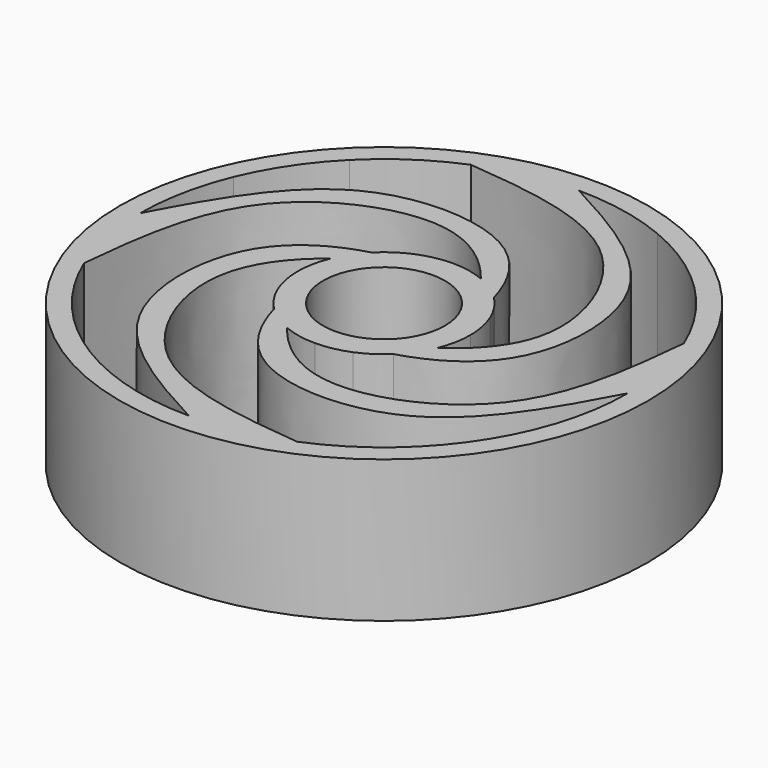
from build123d import *

# Parameters (mm, degrees)
F0_R     = 13
F0_R_2   = 3
F1_DEPTH = 7


with BuildPart() as f1:
    # F0 (on Top) → F1 (new body)
    with BuildSketch(Plane.XY):
        Circle(F0_R)
        with BuildLine():
            ThreePointArc((-11.0865543901, 4.5922011884), (-9.9776353476, 6.6668427962), (-8.4852813742, 8.4852813742))
            ThreePointArc((-8.4852813742, 8.4852813742), (-6.6668427962, 9.9776353476), (-4.5922011884, 11.0865543901))
            ThreePointArc((-4.5922011884, 11.0865543901), (-2.3410838642, 11.7694233648), (0, 12))
            ThreePointArc((0, 12), (2.3410838642, 11.7694233648), (4.5922011884, 11.0865543901))
            ThreePointArc((4.5922011884, 11.0865543901), (6.6668427962, 9.9776353476), (8.4852813742, 8.4852813742))
            ThreePointArc((8.4852813742, 8.4852813742), (9.9776353476, 6.6668427962), (11.0865543901, 4.5922011884))
            ThreePointArc((11.0865543901, 4.5922011884), (11.7694233648, 2.3410838642), (12, 0))
            ThreePointArc((12, 0), (11.7694233648, -2.3410838642), (11.0865543901, -4.5922011884))
            ThreePointArc((11.0865543901, -4.5922011884), (9.9776353476, -6.6668427962), (8.4852813742, -8.4852813742))
            ThreePointArc((8.4852813742, -8.4852813742), (6.6668427962, -9.9776353476), (4.5922011884, -11.0865543901))
            ThreePointArc((4.5922011884, -11.0865543901), (2.3410838642, -11.7694233648), (0, -12))
            ThreePointArc((0, -12), (-2.3410838642, -11.7694233648), (-4.5922011884, -11.0865543901))
            ThreePointArc((-4.5922011884, -11.0865543901), (-6.6668427962, -9.9776353476), (-8.4852813742, -8.4852813742))
            ThreePointArc((-8.4852813742, -8.4852813742), (-9.9776353476, -6.6668427962), (-11.0865543901, -4.5922011884))
            ThreePointArc((-11.0865543901, -4.5922011884), (-11.7694233648, -2.3410838642), (-12, 0))
            ThreePointArc((-12, 0), (-11.7694233648, 2.3410838642), (-11.0865543901, 4.5922011884))
        make_face(mode=Mode.SUBTRACT)
        with BuildLine():
            add(Edge.make_bspline(
                [(11.0865543901, 4.5922011884), (10.7942622521, 1.5596035882), (10.0833868115, -4.258472749), (2.5243876222, -7.4425147934), (-0.5077470427, -5.3853670381), (-1.6264045876, -3.9264880132)],
                knots=[0, 0, 0, 0, 0.3777922096, 0.7121554665, 1, 1, 1, 1], degree=3))
            ThreePointArc((-1.6264045876, -3.9264880132), (-2.3611734903, -3.5337458523), (-3.00520382, -3.00520382))
            add(Edge.make_bspline(
                [(12, 0), (10.5647896088, -2.6897710738), (7.6910045321, -7.7917442557), (-0.5215220043, -7.8435969878), (-2.506708686, -4.7765670277), (-3.00520382, -3.00520382)],
                knots=[0, 0, 0, 0, 0.3778070623, 0.7120506178, 1, 1, 1, 1], degree=3))
            ThreePointArc((12, 0), (11.7694233648, 2.3410838642), (11.0865543901, 4.5922011884))
        make_face()
        with BuildLine():
            add(Edge.make_bspline(
                [(-4.5922011884, 11.0865543901), (-1.5704550423, 10.8105237194), (4.2647067816, 10.1400359721), (7.6082231363, 2.2396004627), (5.4062631178, -0.5980601531), (3.9264880132, -1.6264045876)],
                knots=[0, 0, 0, 0, 0.3770800605, 0.7174396543, 1, 1, 1, 1], degree=3))
            ThreePointArc((3.9264880132, -1.6264045876), (3.5047330037, -2.4040271572), (2.931132267, -3.0774930761))
            add(Edge.make_bspline(
                [(0, 12), (2.6809811037, 10.5678517669), (7.7864739546, 7.684782971), (7.8687297495, -0.5312150395), (4.6991261742, -2.5523586964), (2.931132267, -3.0774930761)],
                knots=[0, 0, 0, 0, 0.3766894981, 0.7099443515, 1, 1, 1, 1], degree=3))
            ThreePointArc((0, 12), (-2.3410838642, 11.7694233648), (-4.5922011884, 11.0865543901))
        make_face()
        with BuildLine():
            ThreePointArc((1.6264045876, 3.9264880132), (2.3611734903, 3.5337458523), (3.00520382, 3.00520382))
            add(Edge.make_bspline(
                [(-12, 0), (-10.5623533002, 2.6943370332), (-7.6905506106, 7.8312811315), (0.5022664847, 7.7234061983), (2.5086918961, 4.7695198466), (3.00520382, 3.00520382)],
                knots=[0, 0, 0, 0, 0.3784484001, 0.713196194, 1, 1, 1, 1], degree=3))
            ThreePointArc((-12, 0), (-11.7694233648, -2.3410838642), (-11.0865543901, -4.5922011884))
            add(Edge.make_bspline(
                [(-11.0865543901, -4.5922011884), (-10.7899237116, -1.5579455075), (-10.0873331075, 4.2554130277), (-2.5197911119, 7.446116549), (0.4879837839, 5.3722483965), (1.6264045876, 3.9264880132)],
                knots=[0, 0, 0, 0, 0.3778070623, 0.7120506178, 1, 1, 1, 1], degree=3))
        make_face()
        with BuildLine():
            ThreePointArc((-3.9264880132, 1.6264045876), (-3.5337458523, 2.3611734903), (-3.00520382, 3.00520382))
            add(Edge.make_bspline(
                [(0, -12), (-2.7107638377, -10.5485813187), (-7.841028011, -7.6544806066), (-7.8294532096, 0.5192707407), (-4.7738325426, 2.504998695), (-3.00520382, 3.00520382)],
                knots=[0, 0, 0, 0, 0.3789040734, 0.7121046038, 1, 1, 1, 1], degree=3))
            ThreePointArc((0, -12), (2.3410838642, -11.7694233648), (4.5922011884, -11.0865543901))
            add(Edge.make_bspline(
                [(4.5922011884, -11.0865543901), (1.5579455075, -10.7899237116), (-4.2554130277, -10.0873331075), (-7.446116549, -2.5197911119), (-5.3722483965, 0.4879837839), (-3.9264880132, 1.6264045876)],
                knots=[0, 0, 0, 0, 0.3778070623, 0.7120506178, 1, 1, 1, 1], degree=3))
        make_face()
        with BuildLine():
            ThreePointArc((3.9264880132, -1.6264045876), (4.1683374417, -0.8291338686), (4.25, 0))
            ThreePointArc((4.25, 0), (4.1683374417, 0.8291338686), (3.9264880132, 1.6264045876))
            ThreePointArc((3.9264880132, 1.6264045876), (3.5337458523, 2.3611734903), (3.00520382, 3.00520382))
            ThreePointArc((3.00520382, 3.00520382), (2.3611734903, 3.5337458523), (1.6264045876, 3.9264880132))
            ThreePointArc((1.6264045876, 3.9264880132), (0.8291338686, 4.1683374417), (0, 4.25))
            ThreePointArc((0, 4.25), (-0.8291338686, 4.1683374417), (-1.6264045876, 3.9264880132))
            ThreePointArc((-1.6264045876, 3.9264880132), (-2.3611734903, 3.5337458523), (-3.00520382, 3.00520382))
            ThreePointArc((-3.00520382, 3.00520382), (-3.5337458523, 2.3611734903), (-3.9264880132, 1.6264045876))
            ThreePointArc((-3.9264880132, 1.6264045876), (-4.1683374417, 0.8291338686), (-4.25, 0))
            ThreePointArc((-4.25, 0), (-4.1683374417, -0.8291338686), (-3.9264880132, -1.6264045876))
            ThreePointArc((-3.9264880132, -1.6264045876), (-3.5337458523, -2.3611734903), (-3.00520382, -3.00520382))
            ThreePointArc((-3.00520382, -3.00520382), (-2.3611734903, -3.5337458523), (-1.6264045876, -3.9264880132))
            ThreePointArc((-1.6264045876, -3.9264880132), (-0.8291338686, -4.1683374417), (0, -4.25))
            ThreePointArc((0, -4.25), (0.8291338686, -4.1683374417), (1.6264045876, -3.9264880132))
            ThreePointArc((1.6264045876, -3.9264880132), (2.317969725, -3.5622347416), (2.931132267, -3.0774930761))
            ThreePointArc((2.931132267, -3.0774930761), (3.5047330037, -2.4040271572), (3.9264880132, -1.6264045876))
        make_face()
        Circle(F0_R_2, mode=Mode.SUBTRACT)
    extrude(amount=F1_DEPTH)


solid = f1.part
